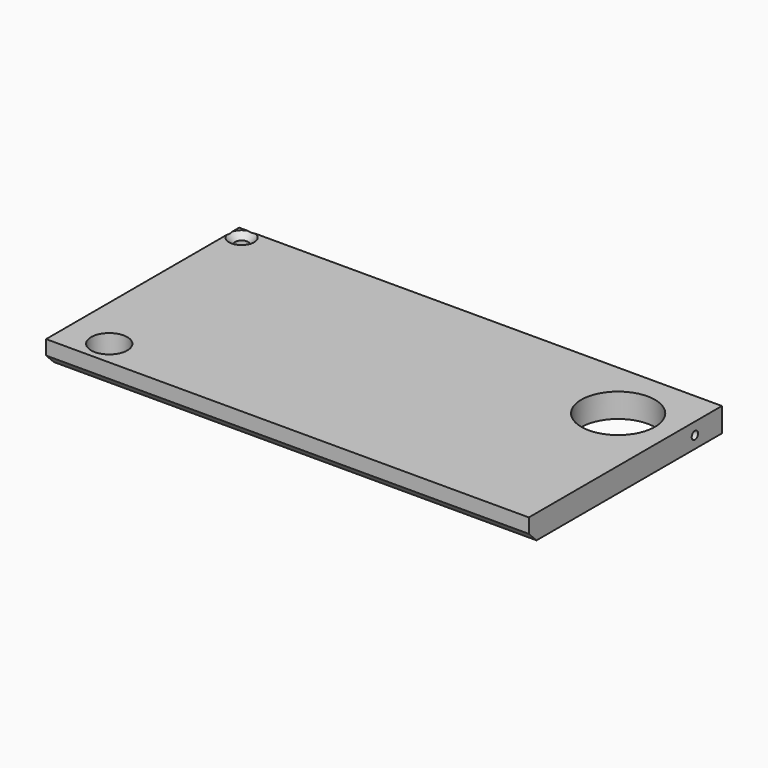
from build123d import *

# Parameters (mm, degrees)
F0_W           = 200
F0_H           = 100
F1_DEPTH       = 10
F2_SIZE        = 4
F4_D           = 9
F4_DEPTH       = 10
F4_CBORE_D     = 15
F4_CBORE_DEPTH = 8.5
F4_TIP         = 2.7038727856
F6_D           = 5.5
F6_DEPTH       = 10
F6_CSINK_D     = 10.4
F6_CSINK_ANGLE = 90
F6_TIP         = 1.6523667023
F8_D           = 30.5
F8_DEPTH       = 10
F8_TIP         = 9.1631244402
F10_D          = 3.3
F10_DEPTH      = 13.6
F10_TIP        = 0.9914200214
F12_D          = 3.3
F12_DEPTH      = 10.1
F12_TIP        = 0.9914200214


with BuildPart() as f1:
    # F0 (on Top) → F1 (new body)
    with BuildSketch(Plane.XY):
        Rectangle(F0_W, F0_H)
    extrude(amount=F1_DEPTH)

    # F2
    f2_edges = [f1.edges().sort_by_distance(p)[0] for p in [
        (0, -50, 0),
    ]]
    chamfer(f2_edges, length=F2_SIZE)

    # F4
    with Locations(Plane.XY.offset(10)):
        with Locations((-82, -39.789)):
            CounterBoreHole(F4_D / 2, F4_CBORE_D / 2, F4_CBORE_DEPTH, depth=F4_DEPTH)
            with Locations((0, 0, -(F4_DEPTH + F4_TIP / 2))):  # 118° drill point
                Cone(0, F4_D / 2, F4_TIP, mode=Mode.SUBTRACT)

    # F6
    with Locations(Plane.XY.offset(10)):
        with Locations((-95, 45)):
            CounterSinkHole(F6_D / 2, F6_CSINK_D / 2, depth=F6_DEPTH, counter_sink_angle=F6_CSINK_ANGLE)
            with Locations((0, 0, -(F6_DEPTH + F6_TIP / 2))):  # 118° drill point
                Cone(0, F6_D / 2, F6_TIP, mode=Mode.SUBTRACT)

    # F8
    with Locations(Plane.XY.offset(10)):
        with Locations((77, 25)):
            Hole(F8_D / 2, depth=F8_DEPTH)
            with Locations((0, 0, -(F8_DEPTH + F8_TIP / 2))):  # 118° drill point
                Cone(0, F8_D / 2, F8_TIP, mode=Mode.SUBTRACT)

    # F10
    with Locations(Plane.YZ.offset(100)):
        with Locations((36, 5)):
            Hole(F10_D / 2, depth=F10_DEPTH)
            with Locations((0, 0, -(F10_DEPTH + F10_TIP / 2))):  # 118° drill point
                Cone(0, F10_D / 2, F10_TIP, mode=Mode.SUBTRACT)

    # F12
    with Locations(Plane(origin=(0, 50, 0), x_dir=(-1, 0, 0), z_dir=(0, 1, 0))):
        with Locations((-87, 5)):
            Hole(F12_D / 2, depth=F12_DEPTH)
            with Locations((0, 0, -(F12_DEPTH + F12_TIP / 2))):  # 118° drill point
                Cone(0, F12_D / 2, F12_TIP, mode=Mode.SUBTRACT)


solid = f1.part
